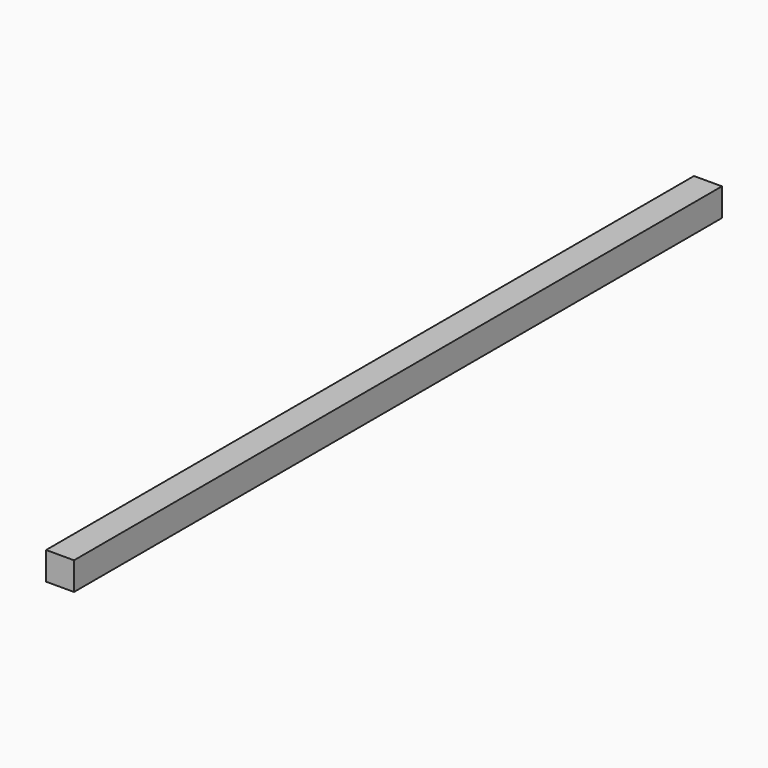
from build123d import *

# Parameters (mm, degrees)
F1_W     = 50.8
F1_H     = 50.8
F2_DEPTH = 1473.2


with BuildPart() as f2:
    # F1 (on offset) → F2 (new body)
    with BuildSketch(Plane.XZ.offset(736.6)):
        Rectangle(F1_W, F1_H)
    extrude(amount=-F2_DEPTH)


solid = f2.part
